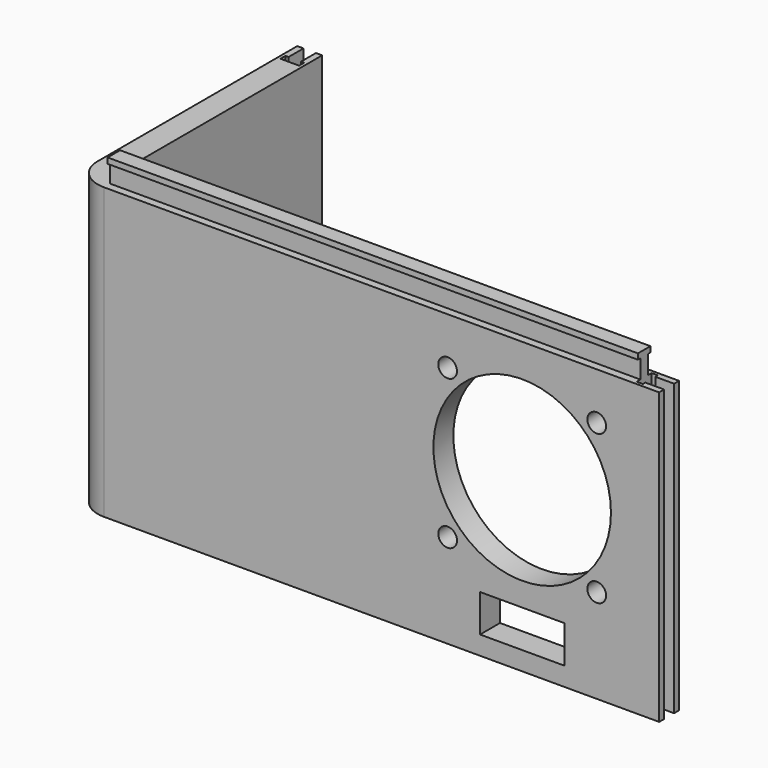
from build123d import *

# Parameters (mm, degrees)
PAD_DEPTH       = 46.5
SKETCH114_W     = 3
SKETCH114_H     = 2
SKETCH114_W_2   = 1
SKETCH114_H_2   = 3
POCKET_DEPTH    = 46.501
SKETCH116_R     = 14.23
SKETCH116_R_2   = 1.5
POCKET001_DEPTH = 5
SKETCH_W        = 2
SKETCH_H        = 35
POCKET002_DEPTH = 7
POCKET003_START = 7
SKETCH117_W     = 2
SKETCH117_H     = 3
SKETCH117_W_2   = 3
SKETCH117_H_2   = 1
POCKET003_DEPTH = 40
PAD001_START    = -4
SKETCH119_W     = 1.5
SKETCH119_H     = 3
SKETCH119_W_2   = 2.5
SKETCH119_H_2   = 0.9
PAD001_DEPTH    = 85
SKETCH118_R     = 1.25
SKETCH118_W     = 12
SKETCH118_H     = 6
POCKET004_DEPTH = 94.001
SKETCH120_W     = 13.5
SKETCH120_H     = 6
POCKET005_DEPTH = 5


with BuildPart() as part:
    # Sketch112 → Pad (new body)
    with BuildSketch(Plane.XY):
        with BuildLine():
            Line((0, 0), (-89, 0))
            ThreePointArc((-94, 5), (-92.535534, 1.464466), (-89, 0))
            Line((-94, 5), (-94, 45))
            Line((-94, 45), (-90, 45))
            Line((-90, 5), (-90, 45))
            ThreePointArc((-90, 5), (-89.707107, 4.292893), (-89, 4))
            Line((0, 4), (-89, 4))
            Line((0, 4), (0, 0))
        make_face()
    extrude(amount=PAD_DEPTH)

    # Sketch114 → Pocket (cut, through all)
    with BuildSketch(Plane.XY):
        with Locations((-1.5, 2)):
            Rectangle(SKETCH114_W, SKETCH114_H)
        with Locations((-3.5, 2)):
            Rectangle(SKETCH114_W_2, SKETCH114_H_2)
    extrude(amount=POCKET_DEPTH, mode=Mode.SUBTRACT)

    # Sketch116 → Pocket001 (cut)
    with BuildSketch(Plane.XZ):
        with Locations((-21.95, 27)):
            Circle(SKETCH116_R)
        with Locations((-10, 38.95)):
            Circle(SKETCH116_R_2)
        with Locations((-33.9, 38.95)):
            Circle(SKETCH116_R_2)
        with Locations((-33.9, 15.05)):
            Circle(SKETCH116_R_2)
        with Locations((-10, 15.05)):
            Circle(SKETCH116_R_2)
    extrude(amount=-POCKET001_DEPTH, mode=Mode.SUBTRACT)

    # Sketch → Pocket002 (cut)
    with BuildSketch(Plane.XY):
        with Locations((-92, 27.5)):
            Rectangle(SKETCH_W, SKETCH_H)
    extrude(amount=POCKET002_DEPTH, mode=Mode.SUBTRACT)

    # Sketch117 → Pocket003 (cut)
    with BuildSketch(Plane.XY.offset(POCKET003_START)):
        with Locations((-92, 43.5)):
            Rectangle(SKETCH117_W, SKETCH117_H)
        with Locations((-92, 41.5)):
            Rectangle(SKETCH117_W_2, SKETCH117_H_2)
    extrude(amount=POCKET003_DEPTH, mode=Mode.SUBTRACT)

    # Sketch119 → Pad001 (join)
    with BuildSketch(Plane.YZ.offset(PAD001_START)):
        with Locations((2, 48)):
            Rectangle(SKETCH119_W, SKETCH119_H)
        with Locations((2, 49.95)):
            Rectangle(SKETCH119_W_2, SKETCH119_H_2)
    extrude(amount=-PAD001_DEPTH)

    # Sketch118 → Pocket004 (cut, through all)
    with BuildSketch(Plane.YZ):
        with Locations((34, 13)):
            Circle(SKETCH118_R)
        with Locations((18, 13)):
            Circle(SKETCH118_R)
        with Locations((26, 13)):
            Rectangle(SKETCH118_W, SKETCH118_H)
    extrude(amount=-POCKET004_DEPTH, mode=Mode.SUBTRACT)

    # Sketch120 → Pocket005 (cut)
    with BuildSketch(Plane.XZ):
        with Locations((-21.95, 6)):
            Rectangle(SKETCH120_W, SKETCH120_H)
    extrude(amount=-POCKET005_DEPTH, mode=Mode.SUBTRACT)


solid = part.part
